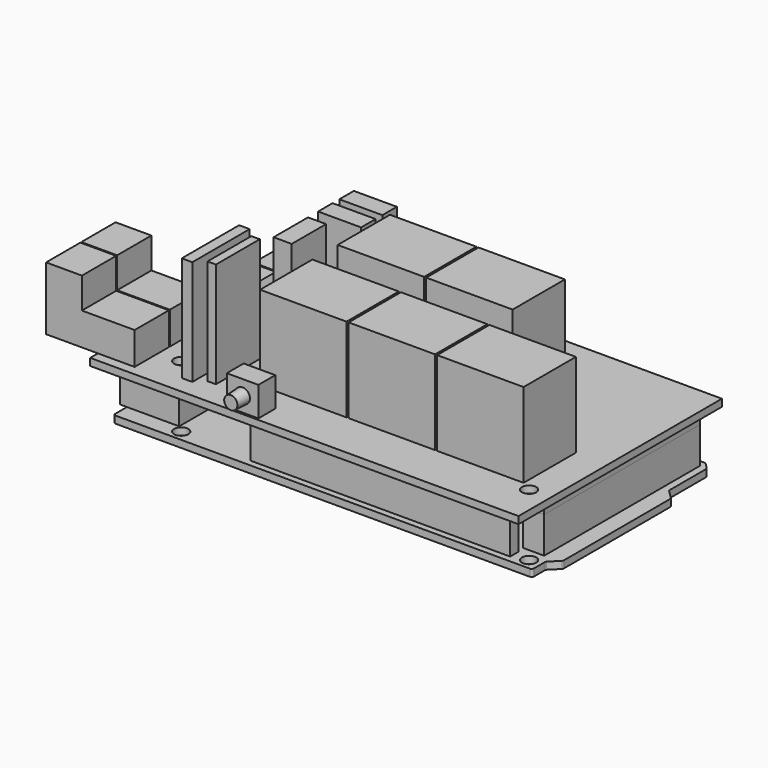
from build123d import *

# Parameters (mm, degrees)
F1_DEPTH    = 1.7
F3_D        = 3
F4_R        = 0.5
F5_W        = 6.1
F5_H        = 12
F5_W_2      = 10.3
F6_DEPTH    = 12
F5_W_3      = 12.4
F5_H_2      = 9
F5_W_4      = 1.6
F7_W        = 70.6
F7_H        = 2.5
F7_W_2      = 5
F7_H_2      = 46.2
F7_W_3      = 61.6
F8_DEPTH    = 8.6
F9_W        = 5
F9_H        = 46.2
F10_DEPTH   = 4.4
F9_W_2      = 61.6
F9_H_2      = 2.5
F9_W_3      = 70.6
F11_W       = 101.6
F11_H       = 60.3
F12_DEPTH   = 1.7
F14_D       = 3.4
F14_2_D     = 3.4
F15_W       = 21
F15_H       = 10.15
F16_DEPTH   = 15
F17_W       = 12.5
F17_H       = 7.3
F18_DEPTH   = 20.6
F19_W       = 7.5
F19_H       = 9.9
F20_DEPTH   = 10
F21_SIZE2   = 3
F21_SIZE    = 1
F21_2_SIZE2 = 3
F21_2_SIZE  = 1
F21_3_SIZE2 = 3
F21_3_SIZE  = 1
F22_W       = 10.2
F22_H       = 4.3
F22_W_2     = 4.3
F22_H_2     = 10.2
F22_W_3     = 20.5
F22_H_3     = 15.5
F23_DEPTH   = 20
F25_DEPTH   = 25
F26_W       = 7.5
F26_H       = 5
F27_DEPTH   = 7
F28_R       = 1.75
F29_DEPTH   = 3.5
F29_TAPER   = 3


with BuildPart() as f1:
    # F0 (on Top) → F1 (new body)
    with BuildSketch(Plane.XY):
        Polygon((46.9, 26.7), (-50.8, 26.7), (-50.8, -26.7), (48.5, -26.7), (48.5, -22.7), (50.8, -20.4), (50.8, 11.6), (48.5, 13.9), (48.5, 25.1), align=None)
    extrude(amount=F1_DEPTH)

    # F3 (through all)
    with Locations(Plane.XY.offset(1.7)):
        with Locations((-35.56, 24.1), (39.37, 24.1), (15.24, -19.08), (45.72, -24.16), (-36.83, -24.16)):
            Hole(F3_D / 2)

    # F4
    f4_edges = [f1.edges().sort_by_distance(p)[0] for p in [
        (-50.8, 26.7, 0.85),
        (-50.8, -26.7, 0.85),
        (48.5, -26.7, 0.85),
        (48.5, -22.7, 0.85),
        (50.8, -20.4, 0.85),
        (50.8, 11.6, 0.85),
        (48.5, 13.9, 0.85),
        (48.5, 25.1, 0.85),
        (46.9, 26.7, 0.85),
    ]]
    fillet(f4_edges, radius=F4_R)

    # F7 (on face) → F8 (join)
    with BuildSketch(Plane.XY.offset(1.7)):
        with Locations((1.8, 23.95)):
            Rectangle(F7_W, F7_H)
        with Locations((44.3, 2.1)):
            Rectangle(F7_W_2, F7_H_2)
        with Locations((11.3, -23.95)):
            Rectangle(F7_W_3, F7_H)
    extrude(amount=F8_DEPTH)

    # F14 (through all)
    with Locations(Plane.XY.offset(16.4)):
        with Locations((-36.8, -24.1), (-36.8, 24.1), (45.7, -24.1)):
            Hole(F14_D / 2)


with BuildPart() as f6:
    # F5 (on face) → F6 (new body)
    with BuildSketch(Plane.XY.offset(1.7)):
        with Locations((-53.85, 11.5)):
            Rectangle(F5_W, F5_H)
        with Locations((-45.65, 11.5)):
            Rectangle(F5_W_2, F5_H)
    extrude(amount=F6_DEPTH)


with BuildPart() as f6b:
    # F5 (on face) → F6, piece 2 (new body)
    with BuildSketch(Plane.XY.offset(1.7)):
        with Locations((-44.6, -18.2)):
            Rectangle(F5_W_3, F5_H_2)
        with Locations((-51.6, -18.2)):
            Rectangle(F5_W_4, F5_H_2)
    extrude(amount=F6_DEPTH)


with BuildPart() as f10:
    # F9 (on face) → F10 (new body)
    with BuildSketch(Plane.XY.offset(10.3)):
        with Locations((44.3, 2.1)):
            Rectangle(F9_W, F9_H)
    extrude(amount=F10_DEPTH)



with BuildPart() as f10b:
    # F9 (on face) → F10, piece 2 (new body)
    with BuildSketch(Plane.XY.offset(10.3)):
        with Locations((11.3, -23.95)):
            Rectangle(F9_W_2, F9_H_2)
    extrude(amount=F10_DEPTH)


with BuildPart() as f10c:
    # F9 (on face) → F10, piece 3 (new body)
    with BuildSketch(Plane.XY.offset(10.3)):
        with Locations((1.8, 23.95)):
            Rectangle(F9_W_3, F9_H_2)
    extrude(amount=F10_DEPTH)


with BuildPart() as f10_1:
    add(f10.part)

    add(f10b.part)  # F12 merges F10b

    add(f10c.part)  # F12 merges F10c
    # F11 (on face) → F12 (join)
    with BuildSketch(Plane.XY.offset(14.7)):
        with Locations((0, -3.45)):
            Rectangle(F11_W, F11_H)
    extrude(amount=F12_DEPTH)

    # F14#2 (through all)
    with Locations(Plane.XY.offset(16.4)):
        with Locations((-36.8, -24.1), (-36.8, 24.1), (45.7, -24.1)):
            Hole(F14_2_D / 2)

    # F22 (on face) → F23 (join)
    with BuildSketch(Plane.XY.offset(16.4)):
        with Locations((-25.4, 17.05)):
            Rectangle(F22_W, F22_H)
        with Locations((-25.4, 10.75)):
            Rectangle(F22_W, F22_H)
        with Locations((-28.35, 0.5)):
            Rectangle(F22_W_2, F22_H_2)
        with Locations((-9.05, 8.15)):
            Rectangle(F22_W_3, F22_H_3)
        with Locations((11.95, 8.15)):
            Rectangle(F22_W_3, F22_H_3)
        with Locations((-9.05, -14.85)):
            Rectangle(F22_W_3, F22_H_3)
        with Locations((11.95, -14.85)):
            Rectangle(F22_W_3, F22_H_3)
        with Locations((32.95, -14.85)):
            Rectangle(F22_W_3, F22_H_3)
    extrude(amount=F23_DEPTH)

    # F26 (on face) → F27 (join)
    with BuildSketch(Plane.XY.offset(16.4)):
        with Locations((-15.05, -30.6)):
            Rectangle(F26_W, F26_H)
    extrude(amount=F27_DEPTH)

    # F28 (on face) → F29 (join)
    with BuildSketch(Plane.XZ.offset(33.1)):
        with Locations((-15.05, 19.9)):
            Circle(F28_R)
    extrude(amount=F29_DEPTH, taper=F29_TAPER)


with BuildPart() as f16:
    # F15 (on face) → F16 (new body)
    with BuildSketch(Plane.XY.offset(16.4)):
        with Locations((-52.6, -26.225)):
            Rectangle(F15_W, F15_H)
    extrude(amount=F16_DEPTH)


with BuildPart() as f16b:
    # F15 (on face) → F16, piece 2 (new body)
    with BuildSketch(Plane.XY.offset(16.4)):
        with Locations((-52.6, -15.775)):
            Rectangle(F15_W, F15_H)
    extrude(amount=F16_DEPTH)


with BuildPart() as f18_tool:
    # F17 (on face) → F18 (new body, through all)
    with BuildSketch(Plane.XZ.offset(31.3)):
        with Locations((-48.35, 27.75)):
            Rectangle(F17_W, F17_H)
    extrude(amount=-F18_DEPTH)


with BuildPart() as f16_1:
    add(f16.part)

    # F18: cut by f18_tool
    add(f18_tool.part, mode=Mode.SUBTRACT)


with BuildPart() as f16b_1:
    add(f16b.part)

    # F18: cut by f18_tool
    add(f18_tool.part, mode=Mode.SUBTRACT)


with BuildPart() as f20:
    # F19 (on face) → F20 (new body)
    with BuildSketch(Plane.XY.offset(16.4)):
        with Locations((-36.25, 15.25)):
            Rectangle(F19_W, F19_H)
    extrude(amount=F20_DEPTH)

    # F21
    f21_edges = [f20.edges().sort_by_distance(p)[0] for p in [
        (-40, 15.25, 26.4),
        (-32.5, 15.25, 26.4),
    ]]
    f21_side = f20.faces().sort_by_distance((-36.25, 15.25, 26.4))[0]
    chamfer(f21_edges, length=F21_SIZE, length2=F21_SIZE2, reference=f21_side)


with BuildPart() as f20b:
    # F19 (on face) → F20, piece 2 (new body)
    with BuildSketch(Plane.XY.offset(16.4)):
        with Locations((-36.25, 5.05)):
            Rectangle(F19_W, F19_H)
    extrude(amount=F20_DEPTH)

    # F21#2
    f21_2_edges = [f20b.edges().sort_by_distance(p)[0] for p in [
        (-40, 5.05, 26.4),
        (-32.5, 5.05, 26.4),
    ]]
    f21_2_side = f20b.faces().sort_by_distance((-36.25, 5.05, 26.4))[0]
    chamfer(f21_2_edges, length=F21_2_SIZE, length2=F21_2_SIZE2, reference=f21_2_side)


with BuildPart() as f20c:
    # F19 (on face) → F20, piece 3 (new body)
    with BuildSketch(Plane.XY.offset(16.4)):
        with Locations((-36.25, -5.15)):
            Rectangle(F19_W, F19_H)
    extrude(amount=F20_DEPTH)

    # F21#3
    f21_3_edges = [f20c.edges().sort_by_distance(p)[0] for p in [
        (-40, -5.15, 26.4),
        (-32.5, -5.15, 26.4),
    ]]
    f21_3_side = f20c.faces().sort_by_distance((-36.25, -5.15, 26.4))[0]
    chamfer(f21_3_edges, length=F21_3_SIZE, length2=F21_3_SIZE2, reference=f21_3_side)


with BuildPart() as f25:
    # F24 (on face) → F25 (new body)
    with BuildSketch(Plane.XY.offset(16.4)):
        Polygon((-27.9916506261, -14.3273180723), (-27.9916506261, -20.8273180723), (-27.9916506261, -27.3273180723), (-25.9916506261, -27.3273180723), (-25.9916506261, -14.3273180723), align=None)
    extrude(amount=F25_DEPTH)


with BuildPart() as f25b:
    # F24 (on face) → F25, piece 2 (new body)
    with BuildSketch(Plane.XY.offset(16.4)):
        Polygon((-29.9916506261, -12.3273180723), (-32.4916506261, -12.3273180723), (-32.4916506261, -29.3273180723), (-29.9916506261, -29.3273180723), (-29.9916506261, -20.8273180723), align=None)
    extrude(amount=F25_DEPTH)


solid = Compound([f1.part, f6.part, f6b.part, f10_1.part, f16_1.part, f16b_1.part, f20.part, f20b.part, f20c.part, f25.part, f25b.part])
